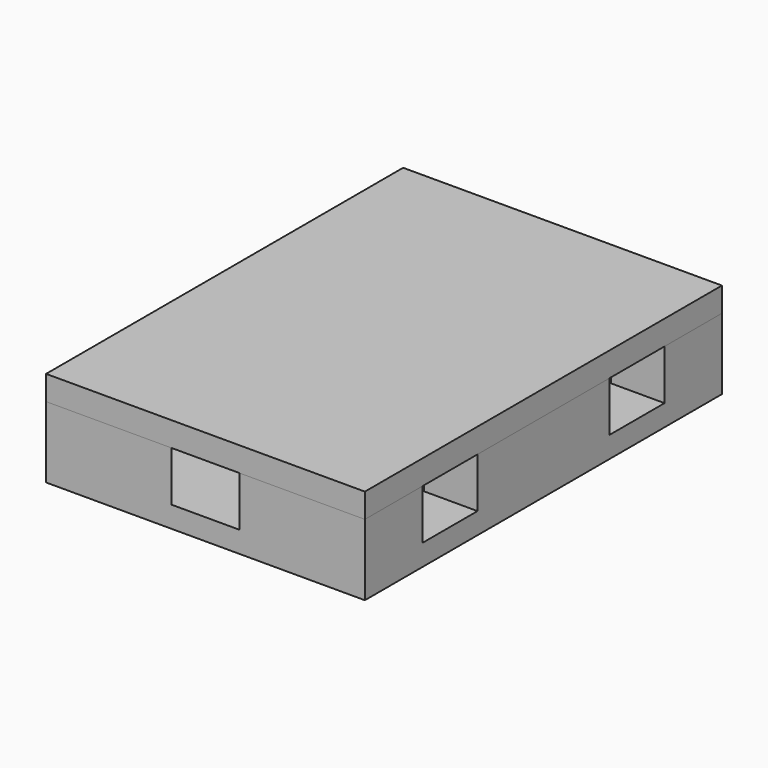
from build123d import *

# Parameters (mm, degrees)
F0_W      = 30
F0_H      = 42
F3_DEPTH  = 2
F6_DEPTH  = 4.7
F7_DEPTH  = 2.3
F1_R      = 10.5
F8_DEPTH  = 25
F2_R      = 10.5
F9_DEPTH  = 25
F4_W      = 17.7234204819
F4_H      = 6.5
F10_DEPTH = 25
F5_W      = 18
F5_H      = 6.5
F11_DEPTH = 25
F12_W     = 8
F12_H     = 11.4227030426
F13_DEPTH = 1


with BuildPart() as f3:
    # F0 (on Top) → F3 (new body)
    with BuildSketch(Plane.XY):
        Rectangle(F0_W, F0_H)
    extrude(amount=-F3_DEPTH)

    # F0 (on Top) → F6 (join)
    with BuildSketch(Plane.XY):
        Rectangle(F0_W, F0_H)
    extrude(amount=F6_DEPTH)


with BuildPart() as f7:
    # F7 (new): a face of the model
    f7_faces = [f3.part.faces().sort_by_distance(p)[0] for p in [
        (0, 0, 4.7),
    ]]
    extrude(f7_faces, amount=F7_DEPTH)


with BuildPart() as f3_1:
    add(f3.part)

    # F1 (on face) → F8 (cut)
    with BuildSketch(Plane.XY):
        with Locations((0, 11)):
            Circle(F1_R)
    extrude(amount=F8_DEPTH, mode=Mode.SUBTRACT)

    # F2 (on face) → F9 (cut)
    with BuildSketch(Plane.XY):
        with Locations((0, -11)):
            Circle(F2_R)
    extrude(amount=F9_DEPTH, mode=Mode.SUBTRACT)

    # F4 (on face) → F10 (cut)
    with BuildSketch(Plane.XY):
        with Locations((8.8473405008, -11)):
            Rectangle(F4_W, F4_H)
    extrude(amount=F10_DEPTH, mode=Mode.SUBTRACT)

    # F5 (on face) → F11 (cut)
    with BuildSketch(Plane.XY):
        with Locations((9, 11)):
            Rectangle(F5_W, F5_H)
    extrude(amount=F11_DEPTH, mode=Mode.SUBTRACT)

    # F12 (on face) → F13 (cut)
    with BuildSketch(Plane.XY.offset(4.7)):
        Rectangle(F12_W, F12_H)
    extrude(amount=-F13_DEPTH, mode=Mode.SUBTRACT)


solid = Compound([f7.part, f3_1.part])
